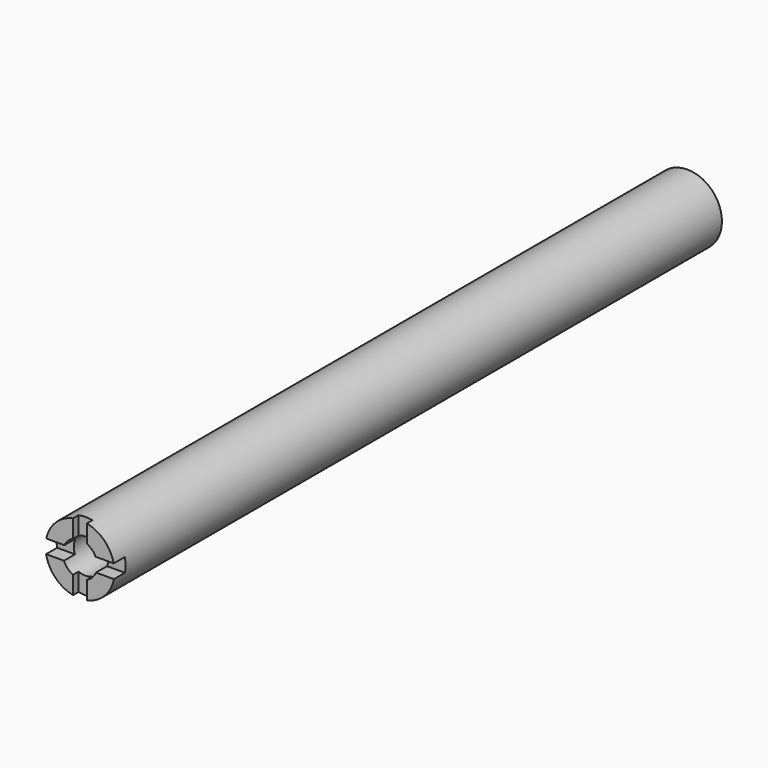
from build123d import *

# Parameters (mm, degrees)
F0_R     = 12.7
F1_DEPTH = 139.7
F2_R     = 6.35
F3_DEPTH = 25.4
F5_DEPTH = 2.54
F7_DEPTH = 5.08


with BuildPart() as f1:
    # F0 (on Front) → F1 (new body, symmetric)
    with BuildSketch(Plane.XZ):
        Circle(F0_R)
    extrude(amount=F1_DEPTH, both=True)

    # F2 (on face) → F3 (cut)
    with BuildSketch(Plane.XZ.offset(139.7)):
        Circle(F2_R)
    extrude(amount=-F3_DEPTH, mode=Mode.SUBTRACT)

    # F4 (on face) → F5 (cut)
    with BuildSketch(Plane.XZ.offset(139.7)):
        Polygon((-2.529651, 18.032704), (-2.529651, 12.445516), (-2.529651, -12.445516), (-2.529651, -16.867724), (2.550349, -16.867724), (2.550349, -12.441291), (2.550349, 12.445516), (2.550349, 18.032704), align=None)
    extrude(amount=-F5_DEPTH, mode=Mode.SUBTRACT)

    # F6 (on face) → F7 (cut)
    with BuildSketch(Plane.XZ.offset(139.7)):
        Polygon((25.367279, -2.379521), (25.367279, 0), (25.367279, 2.700479), (-15.440687, 2.700479), (-15.440687, -2.379521), align=None)
    extrude(amount=-F7_DEPTH, mode=Mode.SUBTRACT)


solid = f1.part
